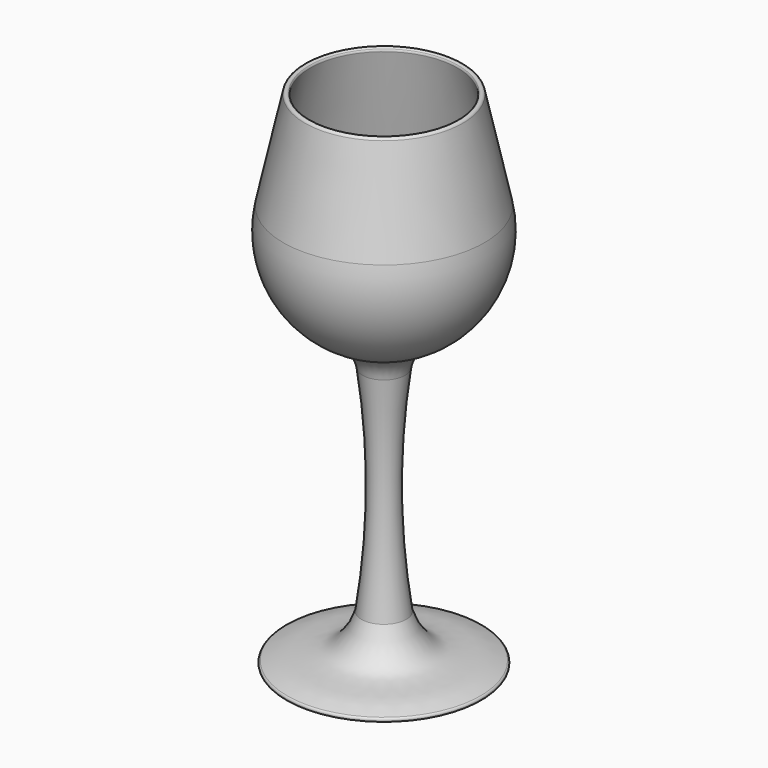
from build123d import *


with BuildPart() as f1:
    # F0 (on Front) → F1 (revolve)
    with BuildSketch(Plane.XZ):
        with BuildLine():
            ThreePointArc((-5.0235991366, 0), (-3.3252590071, -25.2790601688), (-5.2826352076, -50.5393832195))
            add(Edge.make_bspline(
                [(-5.2826352076, -50.5393832195), (-5.9730349475, -52.9858123073), (-8.9629161239, -58.1559739194), (-14.5005874945, -59.2852273154), (-19.1407195146, -59.364564083), (-22.7668155497, -60.7066216889)],
                knots=[0, 0, 0, 0, 0.335209247, 0.6061815094, 0.9338238449, 0.9338238449, 0.9338238449, 0.9338238449], degree=3))
            ThreePointArc((-22.7668155497, -60.7066216889), (-23.0905303933, -61.2726049232), (-22.5904885731, -61.6910383105))
            Line((-22.5904885731, -61.6910383105), (0, -61.6910383105))
            Line((0, -61.6910383105), (0, 5.3819960904))
            ThreePointArc((0, 5.3819960904), (-17.9172673991, 13.9642765429), (-22.4597242045, 33.3046512804))
            Line((-22.4597242045, 33.3046512804), (-17.3828129193, 56.4405468137))
            ThreePointArc((-17.3828129193, 56.4405468137), (-17.3839794948, 56.7179685301), (-17.5033099774, 56.9684169392))
            ThreePointArc((-17.5033099774, 56.9684169392), (-18.144371682, 57.1957275926), (-18.6232973199, 56.7127571218))
            Line((-18.6232973199, 56.7127571218), (-23.7002086051, 33.5768615886))
            ThreePointArc((-23.7002086051, 33.5768615886), (-21.6087014664, 17.3392870526), (-9.6796173602, 6.126340013))
            ThreePointArc((-9.6796173602, 6.126340013), (-6.552169475, 3.67074345), (-5.0235991366, 0))
        make_face()
    revolve(axis=Axis((0, 0, 1.8379017711), (0, 0, -1)))


solid = f1.part
